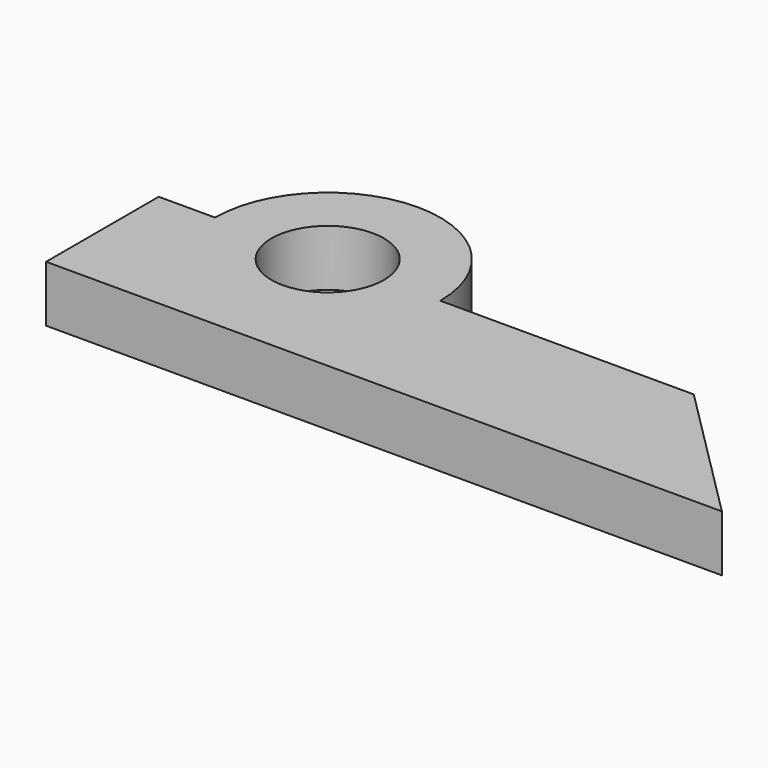
from build123d import *

# Parameters (mm, degrees)
F1_DEPTH = 10


with BuildPart() as f1:
    # F0 (on Top) → F1 (new body)
    with BuildSketch(Plane.XY):
        with BuildLine():
            Line((0, 25), (0, 0))
            Line((0, 0), (120, 0))
            Line((120, 0), (95, 25))
            Line((95, 25), (50, 25))
            ThreePointArc((50, 25), (30, 45), (10, 25))
            Line((10, 25), (0, 25))
        make_face()
        with BuildLine():
            ThreePointArc((20, 25), (30, 35), (40, 25))
            ThreePointArc((40, 25), (30, 15), (20, 25))
        make_face(mode=Mode.SUBTRACT)
    extrude(amount=F1_DEPTH)


solid = f1.part
